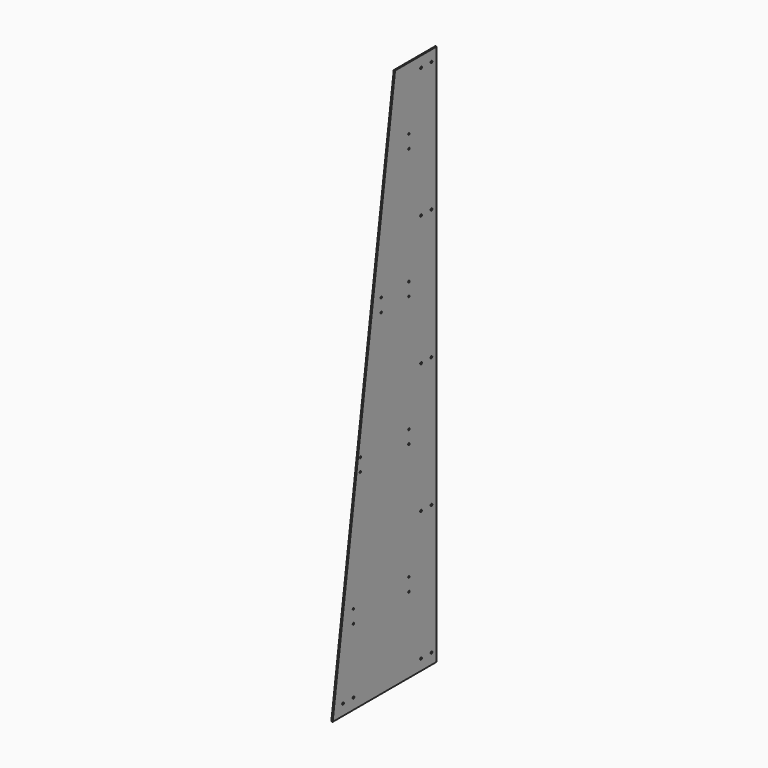
from build123d import *

# Parameters (mm, degrees)
F1_DEPTH = 3
F2_R     = 2.5
F2_R_2   = 2.05
F3_DEPTH = 25


with BuildPart() as f1:
    # F0 (on Right) → F1 (new body)
    with BuildSketch(Plane.YZ):
        Polygon((-740.640364, 0), (-740.640364, 1250), (-860.640364, 1250), (-1040.640364, 0), align=None)
    extrude(amount=F1_DEPTH)

    # F2 (on face) → F3 (cut)
    with BuildSketch(Plane(origin=(0, 0, 0), x_dir=(0, -1, 0), z_dir=(-1, 0, 0))):
        with Locations((755.640364, 25)):
            Circle(F2_R)
        with Locations((785.640364, 25)):
            Circle(F2_R)
        with Locations((755.640364, 325)):
            Circle(F2_R)
        with Locations((785.640364, 325)):
            Circle(F2_R)
        with Locations((755.640364, 625)):
            Circle(F2_R)
        with Locations((785.640364, 625)):
            Circle(F2_R)
        with Locations((755.640364, 925)):
            Circle(F2_R)
        with Locations((785.640364, 925)):
            Circle(F2_R)
        with Locations((755.640364, 1225)):
            Circle(F2_R)
        with Locations((785.640364, 1225)):
            Circle(F2_R)
        with Locations((820.640364, 175)):
            Circle(F2_R_2)
        with Locations((820.640364, 205)):
            Circle(F2_R_2)
        with Locations((820.640364, 505)):
            Circle(F2_R_2)
        with Locations((820.640364, 475)):
            Circle(F2_R_2)
        with Locations((820.640364, 805)):
            Circle(F2_R_2)
        with Locations((820.640364, 775)):
            Circle(F2_R_2)
        with Locations((820.640364, 1105)):
            Circle(F2_R_2)
        with Locations((820.640364, 1075)):
            Circle(F2_R_2)
        with Locations((980.640364, 25)):
            Circle(F2_R)
        with Locations((1010.640364, 25)):
            Circle(F2_R)
        with Locations((980.640364, 175)):
            Circle(F2_R_2)
        with Locations((980.640364, 205)):
            Circle(F2_R_2)
        with Locations((960.640364, 475)):
            Circle(F2_R_2)
        with Locations((960.640364, 505)):
            Circle(F2_R_2)
        with Locations((900.640364, 775)):
            Circle(F2_R_2)
        with Locations((900.640364, 805)):
            Circle(F2_R_2)
    extrude(amount=-F3_DEPTH, mode=Mode.SUBTRACT)


solid = f1.part
